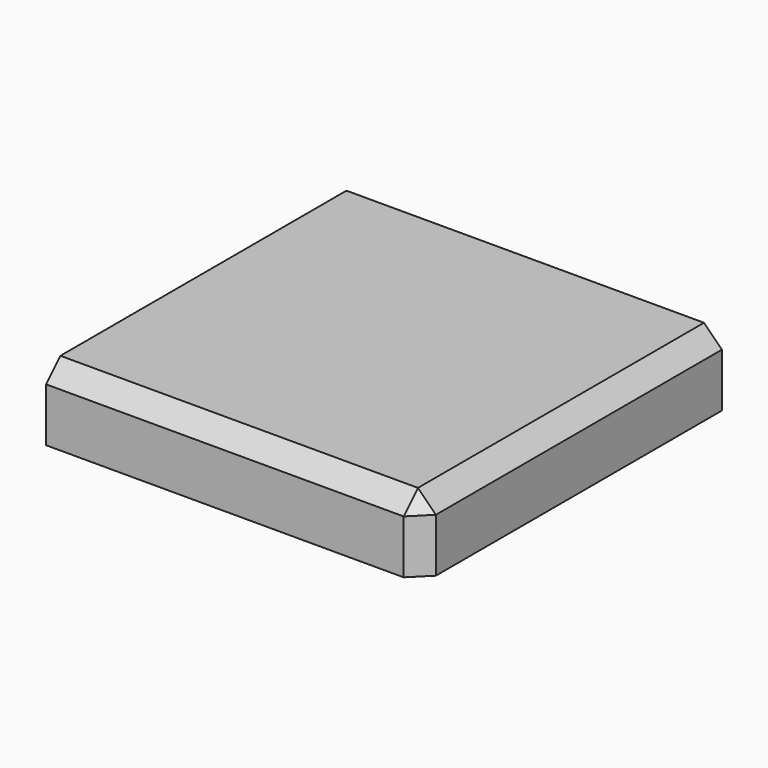
from build123d import *

# Parameters (mm, degrees)
F0_W     = 133.35
F0_H     = 133.35
F1_DEPTH = 25.4
F2_SIZE  = 6.35


with BuildPart() as f1:
    # F0 (on Top) → F1 (new body)
    with BuildSketch(Plane.XY):
        with Locations((66.675, 66.675)):
            Rectangle(F0_W, F0_H)
    extrude(amount=F1_DEPTH)

    # F2
    f2_edges = [f1.edges().sort_by_distance(p)[0] for p in [
        (66.675, 0, 25.4),
        (133.35, 66.675, 25.4),
        (133.35, 0, 12.7),
    ]]
    chamfer(f2_edges, length=F2_SIZE)


solid = f1.part
